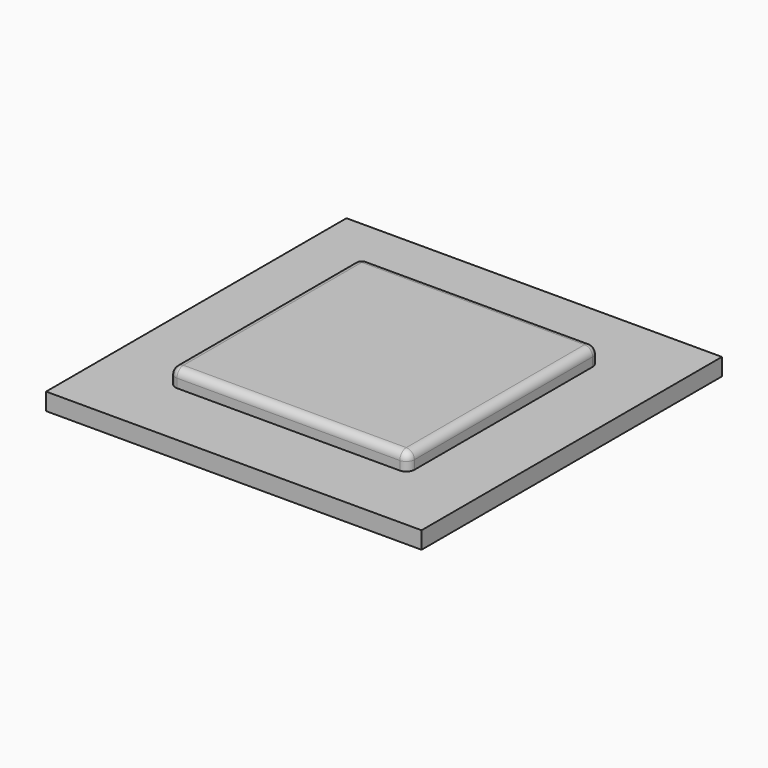
from build123d import *

# Parameters (mm, degrees)
F0_W     = 88.9
F0_H     = 88.9
F1_DEPTH = 12.7
F0_W_2   = 139.7
F0_H_2   = 139.7
F2_DEPTH = 6.4
F3_R     = 3


with BuildPart() as f1:
    # F0 (on Top) → F1 (new body)
    with BuildSketch(Plane.XY):
        with Locations((-23.846633, 1.028963)):
            Rectangle(F0_W, F0_H)
    extrude(amount=F1_DEPTH)

    # F0 (on Top) → F2 (join)
    with BuildSketch(Plane.XY):
        with Locations((-23.846633, 1.028963)):
            Rectangle(F0_W_2, F0_H_2)
        with Locations((-23.846633, 1.028963)):
            Rectangle(F0_W, F0_H, mode=Mode.SUBTRACT)
    extrude(amount=F2_DEPTH)

    # F3
    f3_edges = [f1.edges().sort_by_distance(p)[0] for p in [
        (-68.296633, 1.028963, 12.7),
        (-23.846633, -43.421037, 12.7),
        (20.603367, 1.028963, 12.7),
        (-23.846633, 45.478963, 12.7),
        (20.603367, -43.421037, 9.55),
        (-68.296633, -43.421037, 9.55),
        (-68.296633, 45.478963, 9.55),
        (20.603367, 45.478963, 9.55),
    ]]
    fillet(f3_edges, radius=F3_R)


solid = f1.part
